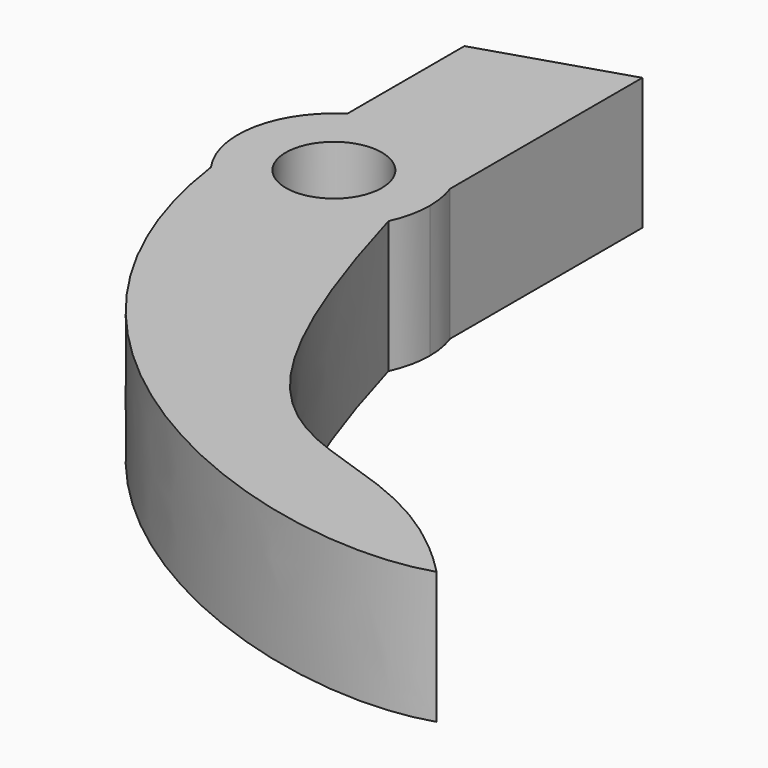
from build123d import *

# Parameters (mm, degrees)
F0_R     = 2
F1_DEPTH = 5.5


with BuildPart() as f1:
    # F0 (on Top) → F1 (new body)
    with BuildSketch(Plane.XY):
        with BuildLine():
            add(Edge.make_bspline(
                [(3.624638, -1.691745), (8.985973, -20.521469), (12.766304, -12.271931), (20.278648, -20)],
                knots=[0, 0, 0, 0, 24.749712, 24.749712, 24.749712, 24.749712], degree=3))
            ThreePointArc((3.624638, -1.691745), (0.368213, -3.983016), (-3.25307, -2.32756))
            add(Edge.make_bspline(
                [(20.278648, -20), (14.046433, -22.037236), (-1.306513, -16.293563), (-3.25307, -2.32756)],
                knots=[0, 0, 0, 0, 29.428844, 29.428844, 29.428844, 29.428844], degree=3))
        make_face()
        with BuildLine():
            ThreePointArc((3.624638, -1.691745), (3.905032, -0.866443), (4, 0))
            ThreePointArc((4, 0), (3.941223, 0.683199), (3.76662, 1.34632))
            ThreePointArc((3.76662, 1.34632), (1.299234, 3.783119), (-2.144686, 3.376436))
            ThreePointArc((-2.144686, 3.376436), (-3.926555, 0.762997), (-3.25307, -2.32756))
            ThreePointArc((-3.25307, -2.32756), (0.368213, -3.983016), (3.624638, -1.691745))
        make_face()
        Circle(F0_R, mode=Mode.SUBTRACT)
        with BuildLine():
            ThreePointArc((-2.144686, 3.376436), (1.299234, 3.783119), (3.76662, 1.34632))
            Line((3.76662, 1.34632), (3.76662, 11.34632))
            Line((3.76662, 11.34632), (-2.144686, 9.476436))
            Line((-2.144686, 9.476436), (-2.144686, 3.376436))
        make_face()
    extrude(amount=F1_DEPTH)


solid = f1.part
